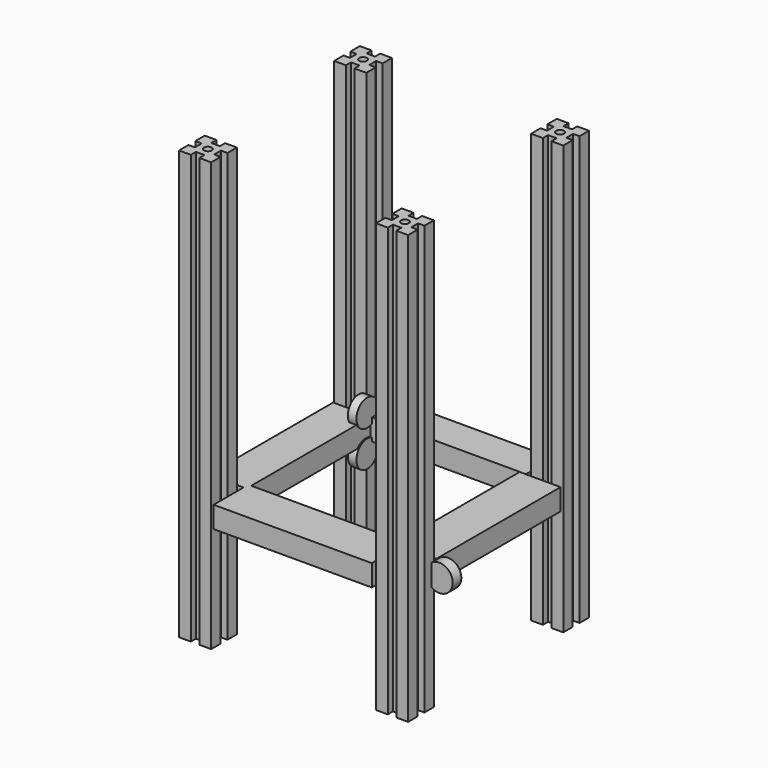
from build123d import *

# Parameters (mm, degrees)
F0_R     = 3.65
F1_DEPTH = 400
F3_START = 100
F2_W     = 5.726531148
F2_H     = 5.5962726474
F2_W_2   = 2.6776865125
F2_H_2   = 0.4904717207
F3_DEPTH = 20
F5_START = 68
F4_R     = 12.5
F5_DEPTH = 10
F7_START = -70
F6_R     = 12.5
F7_DEPTH = 8


with BuildPart() as f1:
    # F0 (on Top) → F1 (new body)
    with BuildSketch(Plane.XY):
        Polygon((100.9384279847, -99.4972968996), (95.9384279847, -99.4972968996), (95.9384279847, -105.4972968996), (106.9384279847, -105.4972968996), (106.9384279847, -94.4972968996), (100.9384279847, -94.3576920501), align=None)
        Polygon((76.9384279847, -105.4972968996), (87.9384279847, -105.4972968996), (87.9384279847, -99.4972968996), (82.9384279847, -99.4972968996), (82.9384279847, -94.4972968996), (76.9384279847, -94.4972968996), align=None)
        Polygon((82.9384279847, -99.4972968996), (87.9384279847, -99.4972968996), (95.9384279847, -99.4972968996), (100.9384279847, -99.4972968996), (100.9384279847, -94.3576920501), (100.9384279847, -86.4972968996), (100.9384279847, -81.4972968996), (95.9384279847, -81.4972968996), (87.9384279847, -81.4972968996), (82.9384279847, -81.4972968996), (82.9384279847, -86.4972968996), (82.9384279847, -94.4972968996), align=None)
        with Locations((91.9384279847, -90.4972968996)):
            Circle(F0_R, mode=Mode.SUBTRACT)
        Polygon((100.9384279847, -81.4972968996), (100.9384279847, -86.4972968996), (106.9384279847, -86.4972968996), (106.9384279847, -75.4972968996), (95.9384279847, -75.4972968996), (95.9384279847, -81.4972968996), align=None)
        Polygon((76.9384279847, -86.4972968996), (82.9384279847, -86.4972968996), (82.9384279847, -81.4972968996), (87.9384279847, -81.4972968996), (87.9384279847, -75.4972968996), (76.9384279847, -75.4972968996), align=None)
    extrude(amount=F1_DEPTH)


with BuildPart() as f1b:
    # F0 (on Top) → F1, piece 2 (new body)
    with BuildSketch(Plane.XY):
        Polygon((87.9384279847, 81.4972968996), (95.9384279847, 81.4972968996), (100.9384279847, 81.4972968996), (100.9384279847, 86.4972968996), (100.9384279847, 94.3576920501), (100.9384279847, 99.4972968996), (95.9384279847, 99.4972968996), (87.9384279847, 99.4972968996), (82.9384279847, 99.4972968996), (82.9384279847, 94.4972968996), (82.9384279847, 86.4972968996), (82.9384279847, 81.4972968996), align=None)
        with Locations((91.9384279847, 90.4972968996)):
            Circle(F0_R, mode=Mode.SUBTRACT)
        Polygon((100.9384279847, 99.4972968996), (100.9384279847, 94.3576920501), (106.9384279847, 94.4972968996), (106.9384279847, 105.4972968996), (95.9384279847, 105.4972968996), (95.9384279847, 99.4972968996), align=None)
        Polygon((87.9384279847, 75.4972968996), (87.9384279847, 81.4972968996), (82.9384279847, 81.4972968996), (82.9384279847, 86.4972968996), (76.9384279847, 86.4972968996), (76.9384279847, 75.4972968996), align=None)
        Polygon((95.9384279847, 75.4972968996), (106.9384279847, 75.4972968996), (106.9384279847, 86.4972968996), (100.9384279847, 86.4972968996), (100.9384279847, 81.4972968996), (95.9384279847, 81.4972968996), align=None)
        Polygon((76.9384279847, 94.4972968996), (82.9384279847, 94.4972968996), (82.9384279847, 99.4972968996), (87.9384279847, 99.4972968996), (87.9384279847, 105.4972968996), (76.9384279847, 105.4972968996), align=None)
    extrude(amount=F1_DEPTH)


with BuildPart() as f1c:
    # F0 (on Top) → F1, piece 3 (new body)
    with BuildSketch(Plane.XY):
        Polygon((-100.9384279847, -99.4972968996), (-100.9384279847, -94.3576920501), (-106.9384279847, -94.4972968996), (-106.9384279847, -105.4972968996), (-95.9384279847, -105.4972968996), (-95.9384279847, -99.4972968996), align=None)
        Polygon((-106.9384279847, -86.4972968996), (-100.9384279847, -86.4972968996), (-100.9384279847, -81.4972968996), (-95.9384279847, -81.4972968996), (-95.9384279847, -75.4972968996), (-106.9384279847, -75.4972968996), align=None)
        Polygon((-87.9384279847, -75.4972968996), (-87.9384279847, -81.4972968996), (-82.9384279847, -81.4972968996), (-82.9384279847, -86.4972968996), (-76.9384279847, -86.4972968996), (-76.9384279847, -75.4972968996), align=None)
        Polygon((-82.9384279847, -99.4972968996), (-87.9384279847, -99.4972968996), (-87.9384279847, -105.4972968996), (-76.9384279847, -105.4972968996), (-76.9384279847, -94.4972968996), (-82.9384279847, -94.4972968996), align=None)
        Polygon((-100.9384279847, -86.4972968996), (-100.9384279847, -94.3576920501), (-100.9384279847, -99.4972968996), (-95.9384279847, -99.4972968996), (-87.9384279847, -99.4972968996), (-82.9384279847, -99.4972968996), (-82.9384279847, -94.4972968996), (-82.9384279847, -86.4972968996), (-82.9384279847, -81.4972968996), (-87.9384279847, -81.4972968996), (-95.9384279847, -81.4972968996), (-100.9384279847, -81.4972968996), align=None)
        with Locations((-91.9384279847, -90.4972968996)):
            Circle(F0_R, mode=Mode.SUBTRACT)
    extrude(amount=F1_DEPTH)


with BuildPart() as f1d:
    # F0 (on Top) → F1, piece 4 (new body)
    with BuildSketch(Plane.XY):
        Polygon((-106.9384279847, 94.4972968996), (-100.9384279847, 94.3576920501), (-100.9384279847, 99.4972968996), (-95.9384279847, 99.4972968996), (-95.9384279847, 105.4972968996), (-106.9384279847, 105.4972968996), align=None)
        Polygon((-95.9384279847, 75.4972968996), (-95.9384279847, 81.4972968996), (-100.9384279847, 81.4972968996), (-100.9384279847, 86.4972968996), (-106.9384279847, 86.4972968996), (-106.9384279847, 75.4972968996), align=None)
        Polygon((-82.9384279847, 86.4972968996), (-82.9384279847, 81.4972968996), (-87.9384279847, 81.4972968996), (-87.9384279847, 75.4972968996), (-76.9384279847, 75.4972968996), (-76.9384279847, 86.4972968996), align=None)
        Polygon((-82.9384279847, 99.4972968996), (-82.9384279847, 94.4972968996), (-76.9384279847, 94.4972968996), (-76.9384279847, 105.4972968996), (-87.9384279847, 105.4972968996), (-87.9384279847, 99.4972968996), align=None)
        Polygon((-87.9384279847, 81.4972968996), (-82.9384279847, 81.4972968996), (-82.9384279847, 86.4972968996), (-82.9384279847, 94.4972968996), (-82.9384279847, 99.4972968996), (-87.9384279847, 99.4972968996), (-95.9384279847, 99.4972968996), (-100.9384279847, 99.4972968996), (-100.9384279847, 94.3576920501), (-100.9384279847, 86.4972968996), (-100.9384279847, 81.4972968996), (-95.9384279847, 81.4972968996), align=None)
        with Locations((-91.9384279847, 90.4972968996)):
            Circle(F0_R, mode=Mode.SUBTRACT)
    extrude(amount=F1_DEPTH)


with BuildPart() as f3:
    # F2 (on Top) → F3 (new body)
    with BuildSketch(Plane.XY.offset(F3_START)):
        Polygon((106.1426028609, 73.3035877347), (67.9735094309, 73.3035877347), (67.9735094309, -65.8438652754), (73.7000405788, -65.8438652754), (73.7000405788, -71.4401379228), (106.1426028609, -71.4401379228), align=None)
        with Locations((70.8367750049, -68.6420015991)):
            Rectangle(F2_W, F2_H)
        Polygon((67.9735094309, -71.4401379228), (67.9735094309, -65.8438652754), (-71.2180808187, -65.8438652754), (-71.2180808187, -71.4401379228), (-73.8957673311, -71.4401379228), (-73.8957673311, -106.3782721758), (73.7000405788, -106.3782721758), (73.7000405788, -71.4401379228), align=None)
        Polygon((-73.8957673311, -65.8438652754), (-71.2180808187, -65.8438652754), (-71.2180808187, 73.5261365771), (-73.8957673311, 73.5261365771), (-73.8957673311, 74.0166082978), (-106.6948398948, 74.0166082978), (-106.6948398948, -71.4401379228), (-73.8957673311, -71.4401379228), align=None)
        with Locations((-72.5569240749, -68.6420015991)):
            Rectangle(F2_W_2, F2_H)
        with Locations((-72.5569240749, 73.7713724375)):
            Rectangle(F2_W_2, F2_H_2)
        Polygon((-71.2180808187, 74.0166082978), (-71.2180808187, 73.5261365771), (73.7000405788, 73.5261365771), (73.7000405788, 105.7461425662), (-73.8957673311, 105.7461425662), (-73.8957673311, 74.0166082978), align=None)
    extrude(amount=F3_DEPTH)


with BuildPart() as f5:
    # F4 (on Front) → F5 (new body)
    with BuildSketch(Plane.XZ.offset(F5_START)):
        with Locations((67.152403295, 128.7550777197)):
            Circle(F4_R)
    extrude(amount=F5_DEPTH)


with BuildPart() as f5b:
    # F4 (on Front) → F5, piece 2 (new body)
    with BuildSketch(Plane.XZ.offset(F5_START)):
        with Locations((67.152403295, 91.2982076406)):
            Circle(F4_R)
    extrude(amount=F5_DEPTH)


with BuildPart() as f5c:
    # F4 (on Front) → F5, piece 3 (new body)
    with BuildSketch(Plane.XZ.offset(F5_START)):
        with Locations((114.0578463674, 109.5204651356)):
            Circle(F4_R)
    extrude(amount=F5_DEPTH)


with BuildPart() as f7:
    # F6 (on Right) → F7 (new body)
    with BuildSketch(Plane.YZ.offset(F7_START)):
        with Locations((67.8486824036, 126.0554790497)):
            Circle(F6_R)
    extrude(amount=-F7_DEPTH)


with BuildPart() as f7b:
    # F6 (on Right) → F7, piece 2 (new body)
    with BuildSketch(Plane.YZ.offset(F7_START)):
        with Locations((67.8486824036, 92.3105552793)):
            Circle(F6_R)
    extrude(amount=-F7_DEPTH)


with BuildPart() as f7c:
    # F6 (on Right) → F7, piece 3 (new body)
    with BuildSketch(Plane.YZ.offset(F7_START)):
        with Locations((112.3919859529, 109.1830134392)):
            Circle(F6_R)
    extrude(amount=-F7_DEPTH)


solid = Compound([f1.part, f1b.part, f1c.part, f1d.part, f3.part, f5.part, f5b.part, f5c.part, f7.part, f7b.part, f7c.part])
